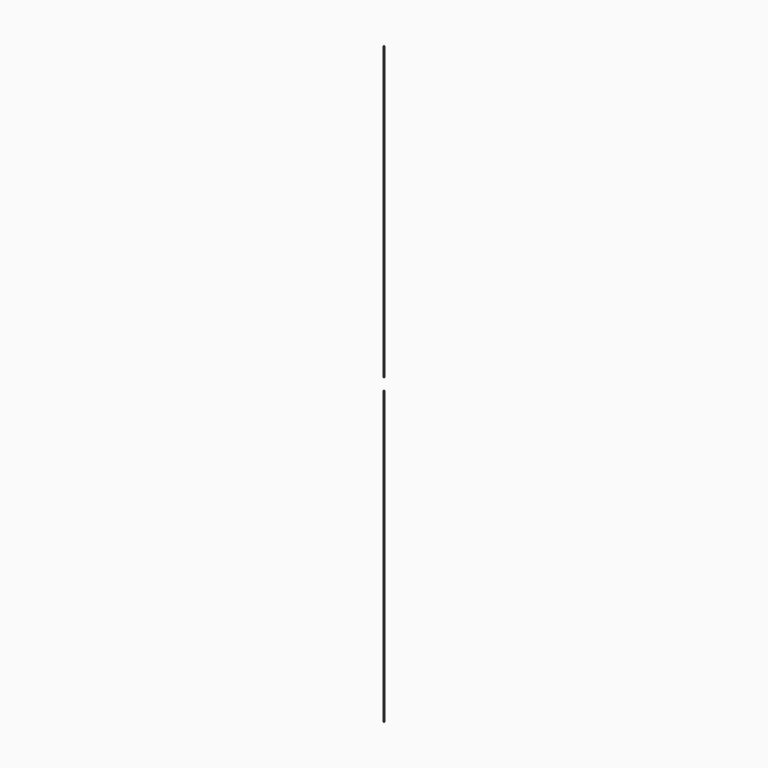
from build123d import *

# Parameters (mm, degrees)
F1_START = 1
F0_R     = 0.05
F1_DEPTH = 49


with BuildPart() as f1:
    # F0 (on Top) → F1 (new body)
    with BuildSketch(Plane.XY.offset(F1_START)):
        Circle(F0_R)
    extrude(amount=F1_DEPTH)


with BuildPart() as f2_1:
    # F2: instance of F1
    add(f1.part.mirror(Plane.XY))


solid = Compound([f1.part, f2_1.part])
